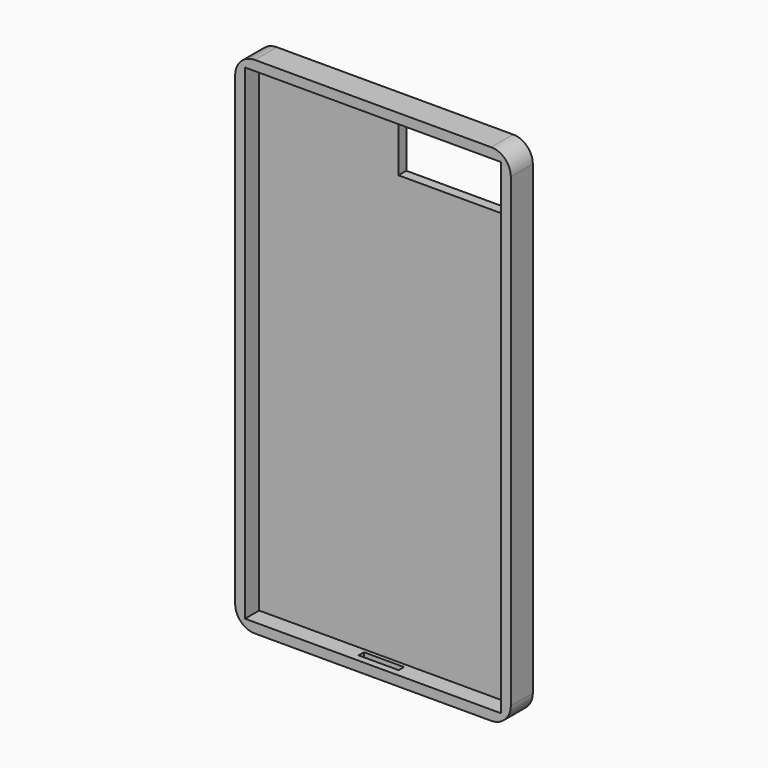
from build123d import *

# Parameters (mm, degrees)
F0_W     = 71.120002
F0_H     = 130.28951
F1_DEPTH = 3.55
F2_T     = -2.54
F3_R     = 5.08
F4_W     = 28.56459
F4_H     = 12.824923
F5_DEPTH = 12.5
F6_W     = 10.341828
F6_H     = 1.748307
F7_DEPTH = 12.5


with BuildPart() as f1:
    # F0 (on Front) → F1 (new body, symmetric)
    with BuildSketch(Plane.XZ):
        Rectangle(F0_W, F0_H)
    extrude(amount=F1_DEPTH, both=True)

    # F2
    f2_openings = [f1.faces().sort_by_distance(p)[0] for p in [
        (0, -3.55, 0),
    ]]
    offset(amount=F2_T, openings=f2_openings)

    # F3
    f3_edges = [f1.edges().sort_by_distance(p)[0] for p in [
        (35.560001, 0, 65.144755),
        (-35.560001, 0, 65.144755),
        (35.560001, 0, -65.144755),
        (-35.560001, 0, -65.144755),
    ]]
    fillet(f3_edges, radius=F3_R)

    # F4 (on face) → F5 (cut, symmetric)
    with BuildSketch(Plane.XZ.offset(-1.01)):
        with Locations((17.19705, 54.360166)):
            Rectangle(F4_W, F4_H)
    extrude(amount=F5_DEPTH, both=True, mode=Mode.SUBTRACT)

    # F6 (on face) → F7 (cut, symmetric)
    with BuildSketch(Plane(origin=(0, 0, -65.144755), x_dir=(1, 0, 0), z_dir=(0, 0, -1))):
        with Locations((0, 0.874153)):
            Rectangle(F6_W, F6_H)
    extrude(amount=F7_DEPTH, both=True, mode=Mode.SUBTRACT)


solid = f1.part
